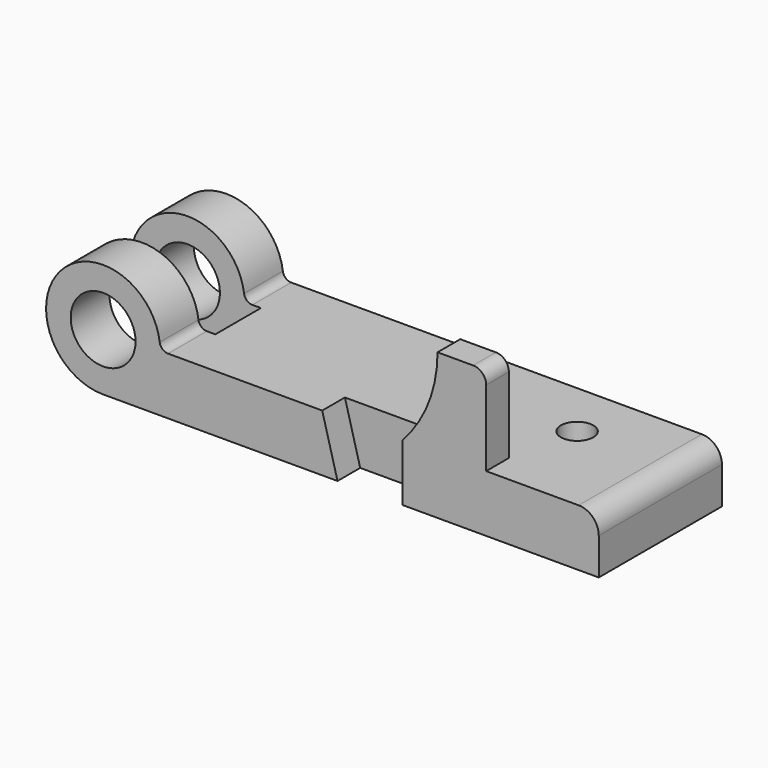
from build123d import *

# Parameters (mm, degrees)
F1_DEPTH = 30.1625
F2_START = 19.05
F2_DEPTH = 11.1125
F3_START = 19.05
F3_DEPTH = 11.1125
F4_R     = 3.302
F6_DEPTH = 57.1533267105
F7_R     = 6.35
F8_DEPTH = 22.353


with BuildPart() as f1:
    # F0 (on Front) → F1 (new body, symmetric)
    with BuildSketch(Plane.XZ):
        with BuildLine():
            ThreePointArc((-171.8564, 22.352), (-194.2084, 44.704), (-216.5604, 22.352))
            Line((-216.5604, 22.352), (-206.9084, 22.352))
            ThreePointArc((-206.9084, 22.352), (-194.2084, 35.052), (-181.5084, 22.352))
            Line((-181.5084, 22.352), (-171.8564, 22.352))
        make_face()
        with BuildLine():
            ThreePointArc((-216.5604, 22.352), (-210.0136507731, 6.5467492269), (-194.2084, 0))
            ThreePointArc((-194.2084, 0), (-178.4031492269, 6.5467492269), (-171.8564, 22.352))
            Line((-171.8564, 22.352), (-181.5084, 22.352))
            ThreePointArc((-181.5084, 22.352), (-194.2084, 9.652), (-206.9084, 22.352))
            Line((-206.9084, 22.352), (-216.5604, 22.352))
        make_face()
        Polygon((-165.9270077944, 0), (-102.362, 0), (-108.3564, 22.352), (-165.9270077944, 22.352), align=None)
        with BuildLine():
            Line((-76.962, 0), (0, 0))
            Line((0, 0), (0, 14.478))
            ThreePointArc((0, 14.478), (-2.3062412049, 20.0457587951), (-7.874, 22.352))
            Line((-7.874, 22.352), (-44.1198, 22.352))
            Line((-44.1198, 22.352), (-76.962, 22.352))
            Line((-76.962, 22.352), (-76.962, 0))
        make_face()
        Polygon((-102.362, 0), (-76.962, 0), (-76.962, 22.352), (-108.3564, 22.352), align=None)
        with BuildLine():
            Line((-194.2084, 0), (-165.9270077944, 0))
            Line((-165.9270077944, 0), (-165.9270077944, 22.352))
            Line((-165.9270077944, 22.352), (-171.8564, 22.352))
            ThreePointArc((-171.8564, 22.352), (-178.4031492269, 6.5467492269), (-194.2084, 0))
        make_face()
    extrude(amount=F1_DEPTH, both=True)

    # F0 (on Front) → F2 (join)
    with BuildSketch(Plane.XZ.offset(F2_START)):
        with BuildLine():
            ThreePointArc((-63.1698, 57.1523267105), (-66.7435560249, 38.4354391488), (-76.962, 22.352))
            Line((-76.962, 22.352), (-44.1198, 22.352))
            Line((-44.1198, 22.352), (-44.1198, 52.0723267105))
            ThreePointArc((-44.1198, 52.0723267105), (-45.6076975516, 55.664429159), (-49.1998, 57.1523267105))
            Line((-49.1998, 57.1523267105), (-63.1698, 57.1523267105))
        make_face()
    extrude(amount=F2_DEPTH)

    # F0 (on Front) → F3 (cut)
    with BuildSketch(Plane.XZ.offset(F3_START)):
        Polygon((-102.362, 0), (-76.962, 0), (-76.962, 22.352), (-108.3564, 22.352), align=None)
    extrude(amount=F3_DEPTH, mode=Mode.SUBTRACT)

    # F4
    f4_edges = [f1.edges().sort_by_distance(p)[0] for p in [
        (-171.8564, 0, 22.352),
    ]]
    fillet(f4_edges, radius=F4_R)

    # F5 (on Top) → F6 (cut, through all)
    with BuildSketch(Plane.XY):
        Polygon((-165.4523751593, -11.1633), (-165.4523751593, 0), (-165.4523751593, 11.1633), (-218.2923191004, 11.1633), (-218.2923191004, -11.1633), align=None)
    extrude(amount=F6_DEPTH, mode=Mode.SUBTRACT)

    # F7 (on face) → F8 (cut, through all)
    with BuildSketch(Plane.XY.offset(22.352)):
        with Locations((-38.862, 7.8105)):
            Circle(F7_R)
    extrude(amount=-F8_DEPTH, mode=Mode.SUBTRACT)


solid = f1.part
